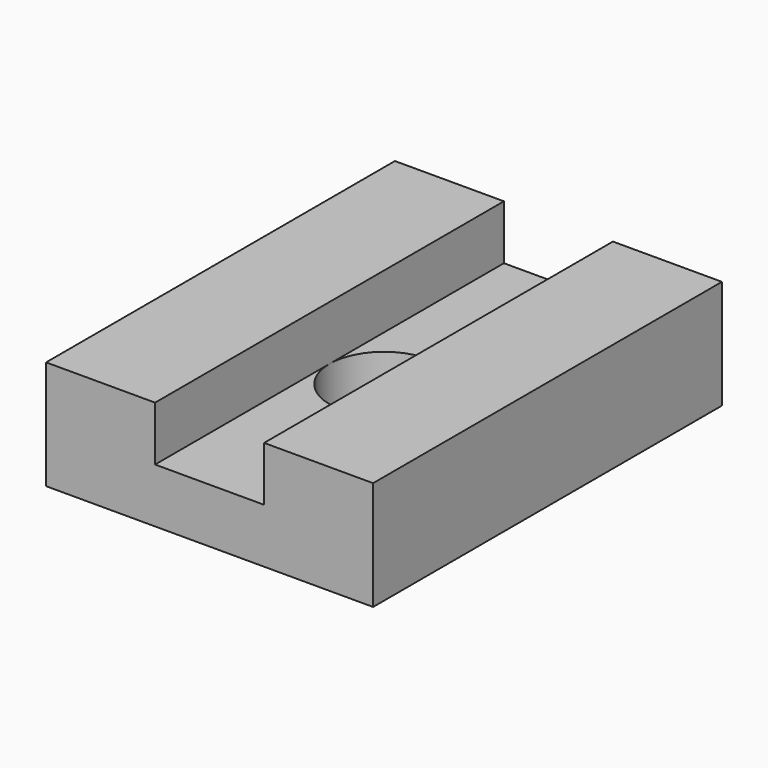
from build123d import *

# Parameters (mm, degrees)
F1_DEPTH = 80
F2_R     = 10
F3_DEPTH = 20


with BuildPart() as f1:
    # F0 (on Front) → F1 (new body)
    with BuildSketch(Plane.XZ):
        Polygon((0, 20), (0, 0), (60, 0), (60, 20), (40, 20), (40, 10), (20, 10), (20, 20), align=None)
    extrude(amount=-F1_DEPTH)

    # F2 (on face) → F3 (cut)
    with BuildSketch(Plane(origin=(0, 0, 0), x_dir=(1, 0, 0), z_dir=(0, 0, -1))):
        with Locations((30, -40)):
            Circle(F2_R)
    extrude(amount=-F3_DEPTH, mode=Mode.SUBTRACT)


solid = f1.part
